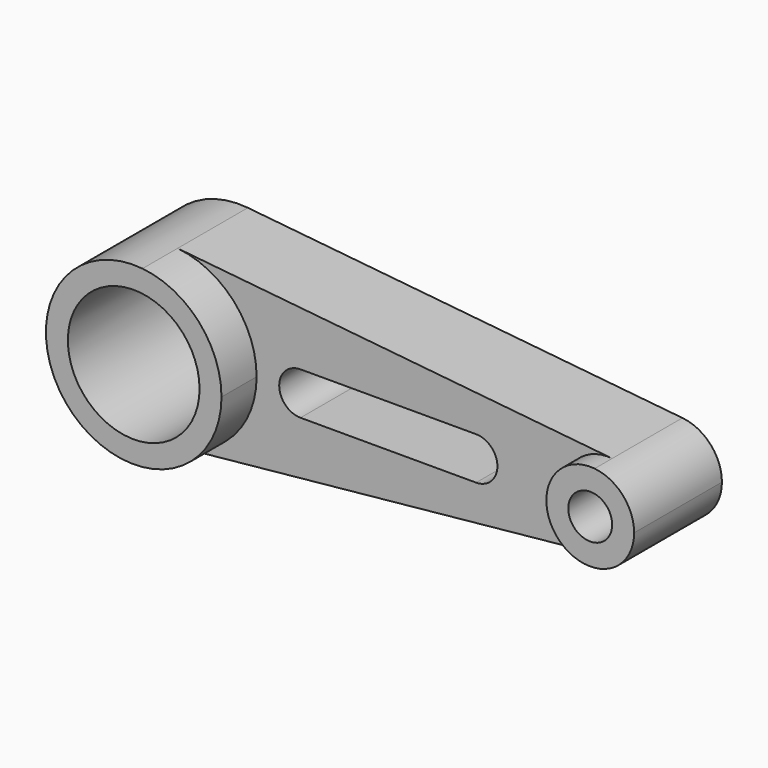
from build123d import *

# Parameters (mm, degrees)
F0_R     = 19.05
F1_DEPTH = 38.1
F2_DEPTH = 25.4
F0_R_2   = 6.35
F3_DEPTH = 31.75


with BuildPart() as f1:
    # F0 (on Front) → F1 (new body)
    with BuildSketch(Plane.XZ):
        with BuildLine():
            ThreePointArc((-62.931842, -3.615838), (-46.634698, 4.618005), (-40.071842, 21.656843))
            ThreePointArc((-40.071842, 21.656843), (-46.634698, 38.695681), (-62.931842, 46.929524))
            ThreePointArc((-62.931842, 46.929524), (-90.871842, 21.656843), (-62.931842, -3.615838))
        make_face()
        with Locations((-65.471842, 21.656843)):
            Circle(F0_R, mode=Mode.SUBTRACT)
    extrude(amount=F1_DEPTH)


with BuildPart() as f2:
    # F0 (on Front) → F2 (new body)
    with BuildSketch(Plane.XZ):
        with BuildLine():
            ThreePointArc((-62.931842, 46.929524), (-46.634698, 38.695681), (-40.071842, 21.656843))
            ThreePointArc((-40.071842, 21.656843), (-46.634698, 4.618005), (-62.931842, -3.615838))
            Line((-62.931842, -3.615838), (62.798158, 9.020502))
            ThreePointArc((62.798158, 9.020502), (48.828158, 21.656843), (62.798158, 34.293183))
            Line((62.798158, 34.293183), (-62.931842, 46.929524))
        make_face()
        with BuildLine():
            ThreePointArc((-27.371842, 15.340263), (-33.538027, 21.506447), (-27.371842, 27.672632))
            Line((-27.371842, 27.672632), (23.428158, 27.672632))
            ThreePointArc((23.428158, 27.672632), (29.594342, 21.506447), (23.428158, 15.340263))
            Line((23.428158, 15.340263), (-27.371842, 15.340263))
        make_face(mode=Mode.SUBTRACT)
    extrude(amount=F2_DEPTH)

    # F0 (on Front) → F3 (join)
    with BuildSketch(Plane.XZ):
        with BuildLine():
            ThreePointArc((74.228158, 21.656843), (70.94673, 30.176262), (62.798158, 34.293183))
            ThreePointArc((62.798158, 34.293183), (48.828158, 21.656843), (62.798158, 9.020502))
            ThreePointArc((62.798158, 9.020502), (70.94673, 13.137424), (74.228158, 21.656843))
        make_face()
        with Locations((61.528158, 21.656843)):
            Circle(F0_R_2, mode=Mode.SUBTRACT)
    extrude(amount=F3_DEPTH)


solid = Compound([f1.part, f2.part])
